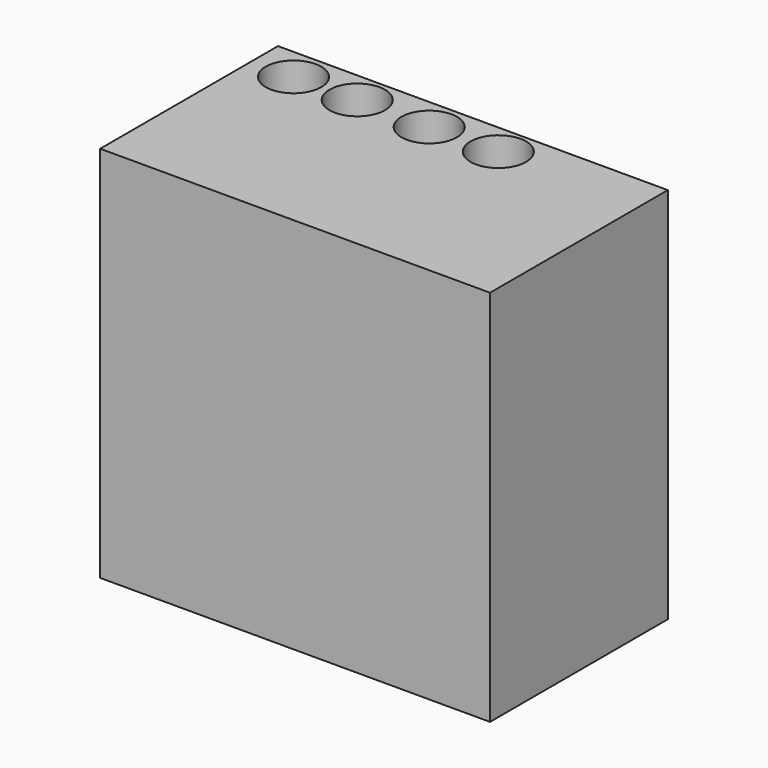
from build123d import *

# Parameters (mm, degrees)
F0_W     = 175.401085
F0_H     = 100
F1_DEPTH = 170
F3_D     = 25


with BuildPart() as f1:
    # F0 (on Top) → F1 (new body)
    with BuildSketch(Plane.XY):
        with Locations((4.138159, 0.103781)):
            Rectangle(F0_W, F0_H)
    extrude(amount=F1_DEPTH)

    # F3 (through all)
    with Locations(Plane.XY.offset(170)):
        with Locations((27.067836, 35.741281), (-3.597767, 35.203289), (-36.219212, 35.511105), (-64.659961, 35.203289)):
            Hole(F3_D / 2)


solid = f1.part
